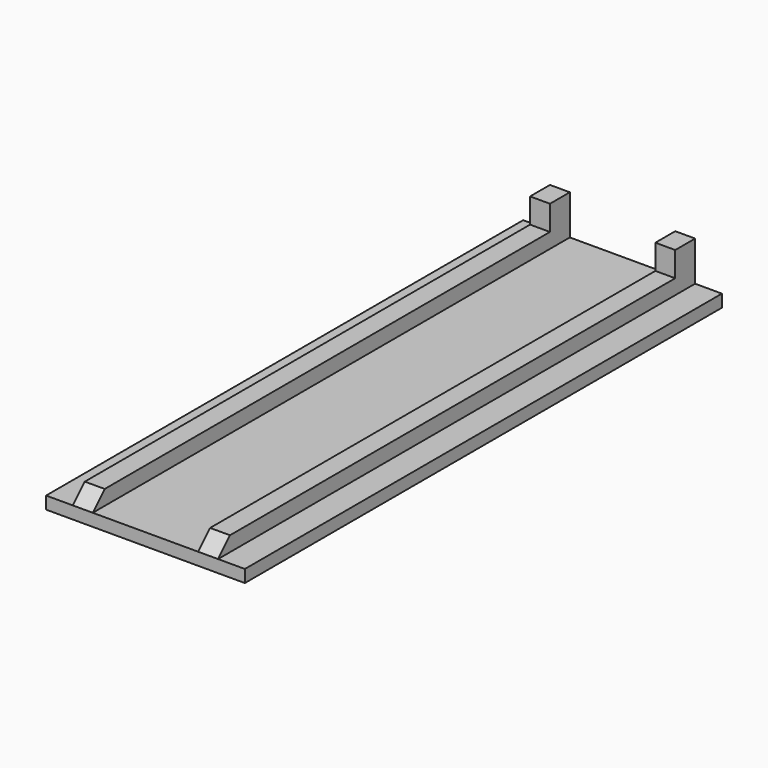
from build123d import *

# Parameters (mm, degrees)
F0_W     = 40
F0_H     = 120
F1_DEPTH = 2.5
F2_W     = 4
F2_H     = 120
F3_DEPTH = 3
F4_SIZE  = 3
F5_W     = 4
F5_H     = 5
F6_DEPTH = 5


with BuildPart() as f1:
    # F0 (on Top) → F1 (new body)
    with BuildSketch(Plane.XY):
        Rectangle(F0_W, F0_H)
    extrude(amount=F1_DEPTH)

    # F2 (on face) → F3 (join)
    with BuildSketch(Plane.XY.offset(2.5)):
        with Locations((-12.606392, 0)):
            Rectangle(F2_W, F2_H)
        with Locations((12.606392, 0)):
            Rectangle(F2_W, F2_H)
    extrude(amount=F3_DEPTH)

    # F4
    f4_edges = [f1.edges().sort_by_distance(p)[0] for p in [
        (-12.606392, -60, 5.5),
        (12.606392, -60, 5.5),
    ]]
    chamfer(f4_edges, length=F4_SIZE)

    # F5 (on face) → F6 (join)
    with BuildSketch(Plane.XY.offset(5.5)):
        with Locations((12.606392, 57.5)):
            Rectangle(F5_W, F5_H)
        with Locations((-12.606392, 57.5)):
            Rectangle(F5_W, F5_H)
    extrude(amount=F6_DEPTH)


solid = f1.part
